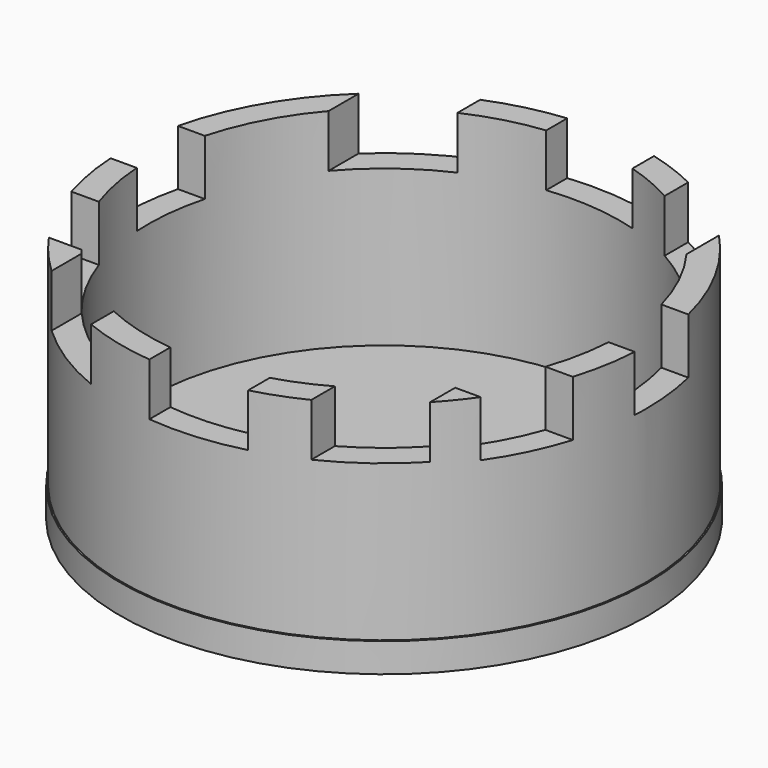
from build123d import *

# Parameters (mm, degrees)
F0_R      = 126.81364
F1_DEPTH  = 100.688182
F2_R      = 114.205285
F3_DEPTH  = 132.476546
F4_W      = 18.965825
F4_H      = 17.48392
F5_DEPTH  = 25
F7_W      = 34.670085
F7_H      = 27.337872
F7_W_2    = 36.49801
F7_H_2    = 28.232135
F8_DEPTH  = 163.279541
F9_W      = 38.883805
F9_H      = 29.987096
F9_W_2    = 44.849336
F9_W_3    = 36.171764
F10_DEPTH = 212.745748
F11_R     = 127.560498
F12_DEPTH = 14.086724


with BuildPart() as f1:
    # F0 (on Top) → F1 (new body)
    with BuildSketch(Plane.XY):
        Circle(F0_R)
    extrude(amount=F1_DEPTH)

    # F2 (on face) → F3 (cut)
    with BuildSketch(Plane.XY.offset(100.688182)):
        Circle(F2_R)
    extrude(amount=-F3_DEPTH, mode=Mode.SUBTRACT)

    # F7 (on Right) → F8 (cut, symmetric)
    with BuildSketch(Plane.YZ):
        with Locations((-54.778769, 87.475028)):
            Rectangle(F7_W, F7_H)
        with Locations((11.338532, 87.922159)):
            Rectangle(F7_W_2, F7_H_2)
    extrude(amount=F8_DEPTH, both=True, mode=Mode.SUBTRACT)

    # F9 (on Front) → F10 (cut, symmetric)
    with BuildSketch(Plane.XZ):
        with Locations((-67.055523, 90.25082)):
            Rectangle(F9_W, F9_H)
        with Locations((9.9428, 90.25082)):
            Rectangle(F9_W_2, F9_H)
        with Locations((73.962882, 90.25082)):
            Rectangle(F9_W_3, F9_H)
    extrude(amount=F10_DEPTH, both=True, mode=Mode.SUBTRACT)

    # F11 (on face) → F12 (join)
    with BuildSketch(Plane.XY):
        Circle(F11_R)
    extrude(amount=-F12_DEPTH)


with BuildPart() as f5:
    # F4 (on Front) → F5 (new body)
    with BuildSketch(Plane.XZ):
        with Locations((-64.803489, 66.289768)):
            Rectangle(F4_W, F4_H)
    extrude(amount=F5_DEPTH)


solid = f1.part
